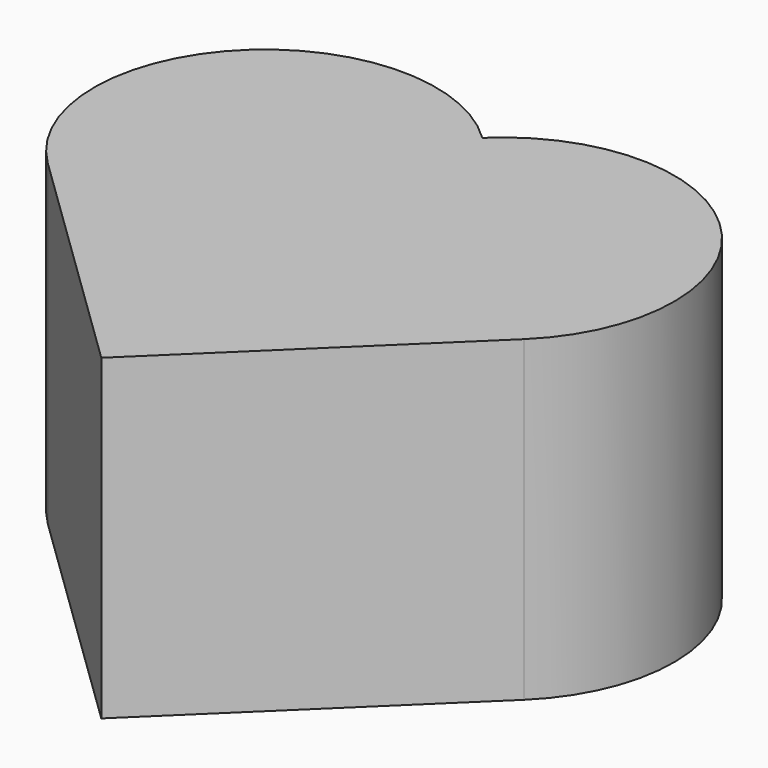
from build123d import *

# Parameters (mm, degrees)
F1_DEPTH = 10


with BuildPart() as f1:
    # F0 (on Top) → F1 (new body)
    with BuildSketch(Plane.XY):
        with BuildLine():
            Line((-7.496322, 0), (0, -7.265159))
            Line((0, -7.265159), (7.496322, 0))
            ThreePointArc((7.496322, 0), (7.615582, 7.615582), (0, 7.734841))
            ThreePointArc((0, 7.734841), (-7.615582, 7.615582), (-7.496322, 0))
        make_face()
    extrude(amount=F1_DEPTH)


solid = f1.part
